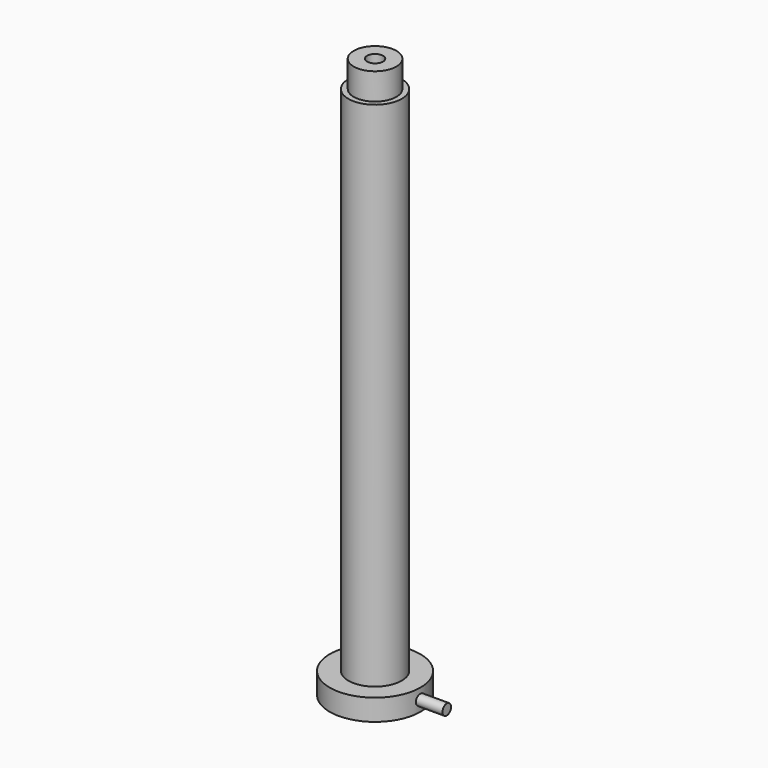
from build123d import *

# Parameters (mm, degrees)
F0_R      = 8.5
F1_DEPTH  = 4
F3_R      = 5
F4_DEPTH  = 100
F5_W      = 4
F5_H      = 5
F9_R      = 1
F10_DEPTH = 5
F11_R     = 1.5
F12_DEPTH = 128.4


with BuildPart() as f1:
    # F0 (on Top) → F1 (new body)
    with BuildSketch(Plane.XY):
        Circle(F0_R)
    extrude(amount=F1_DEPTH)

    # F3 (on Top) → F4 (join)
    with BuildSketch(Plane.XY):
        Circle(F3_R)
    extrude(amount=F4_DEPTH)

    # F5 (on Right) → F6 (revolve)
    with BuildSketch(Plane.YZ):
        with Locations((2, 102.5)):
            Rectangle(F5_W, F5_H)
    revolve(axis=Axis((0, 0, 102.5), (0, 0, -1)))

    # F9 (on face) → F10 (join)
    with BuildSketch(Plane.YZ.offset(8.440972)):
        with Locations((0, 2)):
            Circle(F9_R)
    extrude(amount=F10_DEPTH)

    # F11 (on face) → F12 (cut)
    with BuildSketch(Plane.XY.offset(105)):
        Circle(F11_R)
    extrude(amount=-F12_DEPTH, mode=Mode.SUBTRACT)


solid = f1.part
